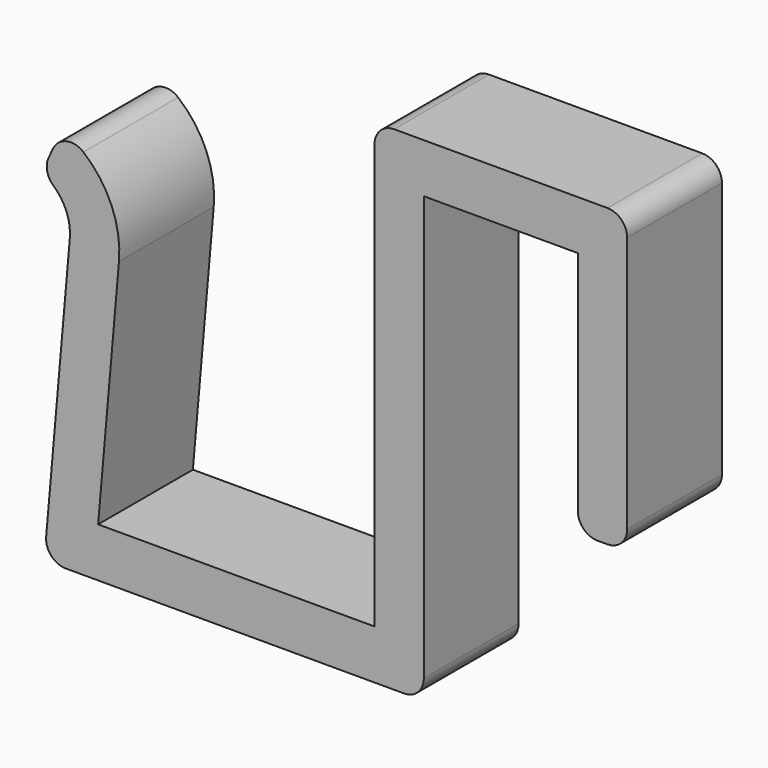
from build123d import *

# Parameters (mm, degrees)
F1_DEPTH = 12
F2_R     = 2


with BuildPart() as f1:
    # F0 (on Front) → F1 (new body)
    with BuildSketch(Plane.XZ):
        with BuildLine():
            Line((0, 25), (0, 0))
            Line((0, 0), (5, 0))
            Line((5, 0), (5, 30))
            Line((5, 30), (-20.6, 30))
            Line((-20.6, 30), (-20.6, -15))
            Line((-20.6, -15), (-48.6, -15))
            Line((-48.6, -15), (-46.489035, 9.128443))
            ThreePointArc((-46.489035, 9.128443), (-47.790728, 15), (-52.224799, 19.063078))
            Line((-52.224799, 19.063078), (-54.33789, 14.531539))
            ThreePointArc((-54.33789, 14.531539), (-52.120855, 12.5), (-51.470008, 9.564221))
            Line((-51.470008, 9.564221), (-54.056543, -20))
            Line((-54.056543, -20), (-15.6, -20))
            Line((-15.6, -20), (-15.6, 25))
            Line((-15.6, 25), (0, 25))
        make_face()
    extrude(amount=F1_DEPTH)

    # F2
    f2_edges = [f1.edges().sort_by_distance(p)[0] for p in [
        (-52.224799, -6, 19.063078),
        (-54.33789, -6, 14.531539),
        (-54.056543, -6, -20),
        (-15.6, -6, -20),
        (5, -6, 30),
        (-20.6, -6, 30),
        (0, -6, 0),
        (5, -6, 0),
    ]]
    fillet(f2_edges, radius=F2_R)


solid = f1.part
